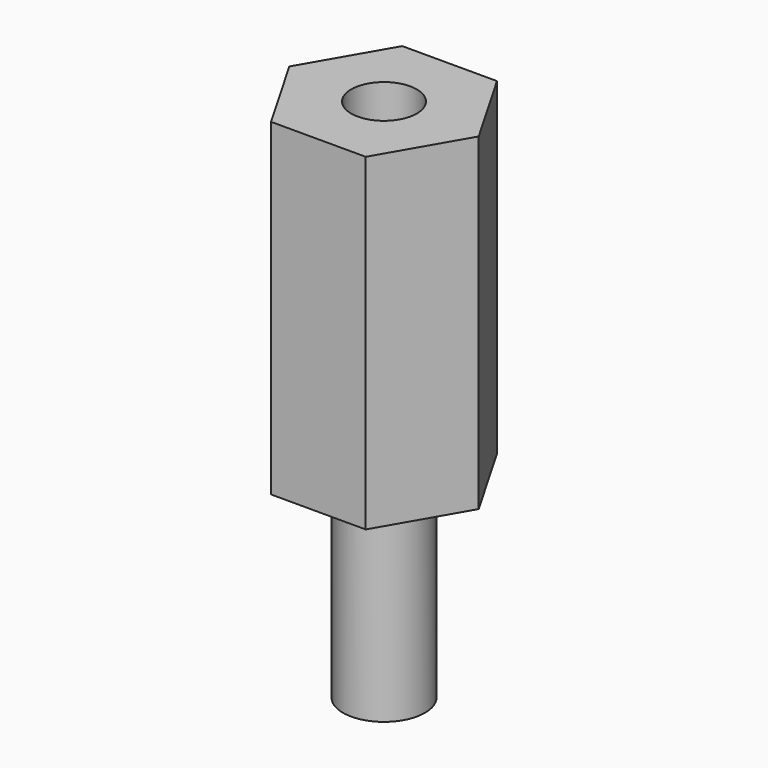
from build123d import *

# Parameters (mm, degrees)
SKETCH_R     = 1
PAD_DEPTH    = 10
SKETCH001_R  = 1.25
PAD001_DEPTH = 6


with BuildPart() as part:
    # Sketch → Pad (new body)
    with BuildSketch(Plane.XY):
        Polygon((1.443376, -2.5), (2.886751, 0), (1.443376, 2.5), (-1.443376, 2.5), (-2.886751, 0), (-1.443376, -2.5), align=None)
        Circle(SKETCH_R, mode=Mode.SUBTRACT)
    extrude(amount=PAD_DEPTH)

    # Sketch001 (on Face8 of Pad) → Pad001 (join)
    with BuildSketch(Plane(origin=(0, 0, 0), x_dir=(1, 0, 0), z_dir=(0, 0, -1))):
        Circle(SKETCH001_R)
    extrude(amount=PAD001_DEPTH)


solid = part.part
